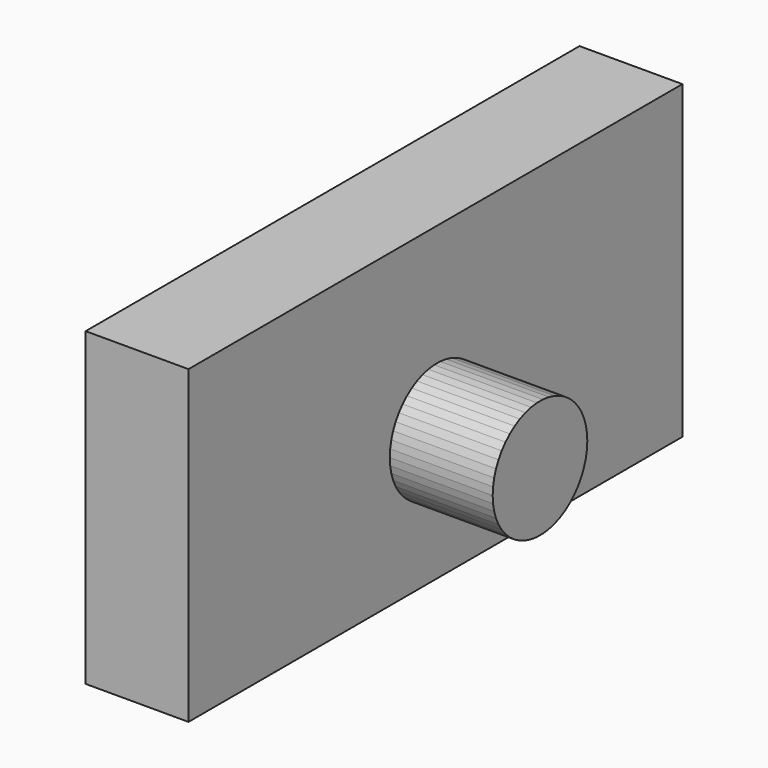
from build123d import *

# Parameters (mm, degrees)
F0_W     = 83.83190725
F0_H     = 76.6697376966
F1_DEPTH = 25.4
F3_DEPTH = 68.58
F6_DEPTH = 25.4
F7_R     = 14.0713154884
F8_DEPTH = 25.4


with BuildPart() as f1:
    # F0 (on Right) → F1 (new body)
    with BuildSketch(Plane.YZ):
        with Locations((33.7740029208, 38.3348688483)):
            Rectangle(F0_W, F0_H)
    extrude(amount=-F1_DEPTH)

    # F3 (add): a face of the model
    f3_faces = [f1.faces().sort_by_distance(p)[0] for p in [
        (-12.7, -8.1419507042, 38.3348688483),
    ]]
    extrude(f3_faces, amount=F3_DEPTH)

    # F5 (on face) → F6 (join)
    with BuildSketch(Plane.YZ):
        Polygon((2.735585974, 46.5573131723), (0.9166808596, 46.7870943248), (-0.9166808596, 46.7870943248), (-2.735585974, 46.5573131723), (-4.5113492634, 46.1013746532), (-6.2159658801, 45.4264691904), (-7.8225530015, 44.5432404463), (-9.3057737891, 43.4656174656), (-10.6422369651, 42.2105950066), (-11.8108657068, 40.7979655232), (-12.7932300408, 39.2500070262), (-13.5738374948, 37.5911317457), (-14.1403774229, 35.847501136), (-14.4839151519, 34.0466132933), (-14.5990328868, 32.2168692946), (-14.4839151519, 30.387125296), (-14.1403774229, 28.5862374533), (-13.5738374948, 26.8426068436), (-12.7932300408, 25.1837315631), (-11.8108657068, 23.6357730661), (-10.6422369651, 22.2231435827), (-9.3057737891, 20.9681211237), (-7.8225530015, 19.890498143), (-6.2159658801, 19.0072693989), (-4.5113492634, 18.3323639361), (-2.735585974, 17.876425417), (-0.9166808596, 17.6466442645), (0.9166808596, 17.6466442645), (2.735585974, 17.876425417), (4.5113492634, 18.3323639361), (6.2159658801, 19.0072693989), (7.8225530015, 19.890498143), (9.3057737891, 20.9681211237), (10.6422369651, 22.2231435827), (11.8108657068, 23.6357730661), (12.7932300408, 25.1837315631), (13.5738374948, 26.8426068436), (14.1403774229, 28.5862374533), (14.4839151519, 30.387125296), (14.5990328868, 32.2168692946), (14.4839151519, 34.0466132933), (14.1403774229, 35.847501136), (13.5738374948, 37.5911317457), (12.7932300408, 39.2500070262), (11.8108657068, 40.7979655232), (10.6422369651, 42.2105950066), (9.3057737891, 43.4656174656), (7.8225530015, 44.5432404463), (6.2159658801, 45.4264691904), (4.5113492634, 46.1013746532), align=None)
    extrude(amount=F6_DEPTH)

    # F7 (on face) → F8 (join)
    with BuildSketch(Plane(origin=(-25.4, 0, 0), x_dir=(0, -1, 0), z_dir=(-1, 0, 0))):
        with Locations((0, 32.0016257465)):
            Circle(F7_R)
    extrude(amount=F8_DEPTH)


solid = f1.part
